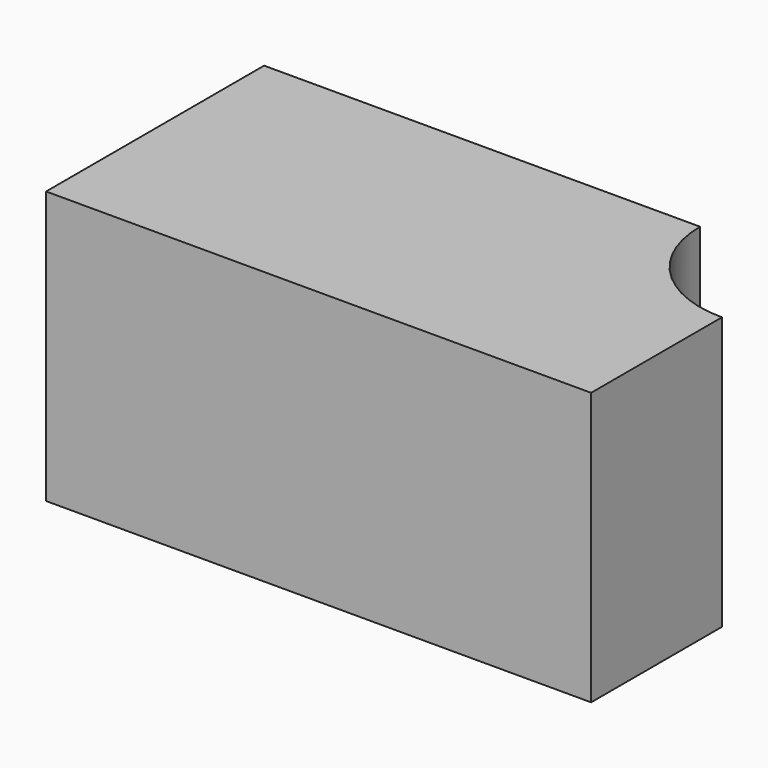
from build123d import *

# Parameters (mm, degrees)
CYLINDER_R     = 2
CYLINDER_DEPTH = 5
BOX_W          = 10
BOX_H          = 5
BOX_DEPTH      = 5


with BuildPart() as cylinder:
    # Cylinder → Cylinder (new body)
    with BuildSketch(Plane(origin=(10, 5, 0), x_dir=(1, 0, 0), z_dir=(0, 0, 1))):
        Circle(CYLINDER_R)
    extrude(amount=CYLINDER_DEPTH)


with BuildPart() as cut:
    # Box → Box (new body)
    with BuildSketch(Plane.XY):
        with Locations((5, 2.5)):
            Rectangle(BOX_W, BOX_H)
    extrude(amount=BOX_DEPTH)

    # Cut: cut Cylinder
    add(cylinder.part, mode=Mode.SUBTRACT)


solid = cut.part
